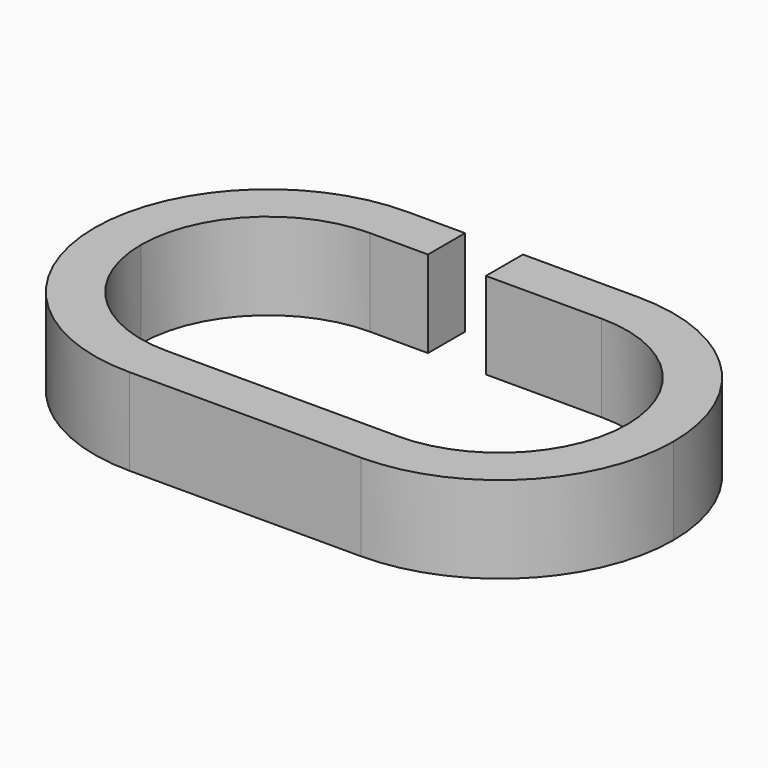
from build123d import *

# Parameters (mm, degrees)
F1_DEPTH = 1.5


with BuildPart() as f1:
    # F0 (on Top) → F1 (new body)
    with BuildSketch(Plane.XY):
        with BuildLine():
            ThreePointArc((0, 3), (0.87868, 0.87868), (3, 0))
            Line((3, 0), (7, 0))
            ThreePointArc((7, 0), (9.12132, 0.87868), (10, 3))
            ThreePointArc((10, 3), (9.12132, 5.12132), (7, 6))
            Line((7, 6), (5, 6))
            Line((5, 6), (5, 5.2))
            Line((5, 5.2), (7, 5.2))
            ThreePointArc((7, 5.2), (8.555635, 4.555635), (9.2, 3))
            ThreePointArc((9.2, 3), (8.555635, 1.444365), (7, 0.8))
            Line((7, 0.8), (3, 0.8))
            ThreePointArc((3, 0.8), (1.444365, 1.444365), (0.8, 3))
            ThreePointArc((0.8, 3), (1.444365, 4.555635), (3, 5.2))
            Line((3, 5.2), (4, 5.2))
            Line((4, 5.2), (4, 6))
            Line((4, 6), (3, 6))
            ThreePointArc((3, 6), (0.87868, 5.12132), (0, 3))
        make_face()
    extrude(amount=F1_DEPTH)


solid = f1.part
